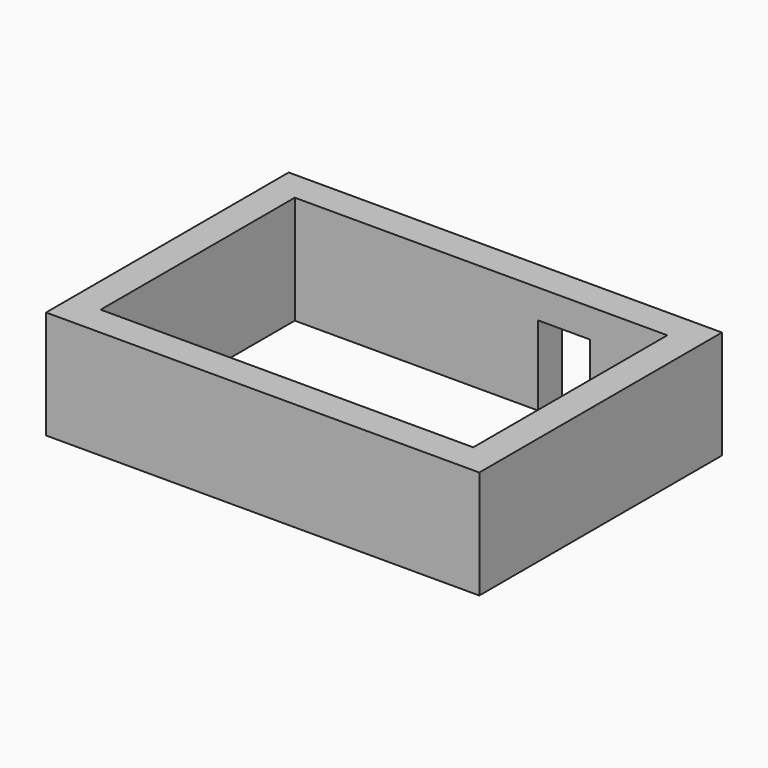
from build123d import *

# Parameters (mm, degrees)
F0_W     = 1200
F0_H     = 700
F1_DEPTH = 2500
F2_W     = 1200
F2_H     = 1833.160281
F3_DEPTH = 700


with BuildPart() as f1:
    # F0 (on Top) → F1 (new body)
    with BuildSketch(Plane.XY):
        Polygon((0, 7000), (0, 0), (10000, 0), (10000, 7000), (7513.208103, 7000), (7513.208103, 6300), (9300, 6300), (9300, 700), (700, 700), (700, 6300), (6313.208103, 6300), (6313.208103, 7000), align=None)
        with Locations((6913.208103, 6650)):
            Rectangle(F0_W, F0_H)
    extrude(amount=F1_DEPTH)

    # F2 (on face) → F3 (cut, through all)
    with BuildSketch(Plane(origin=(0, 7000, 0), x_dir=(-1, 0, 0), z_dir=(0, 1, 0))):
        with Locations((-6913.208103, 916.58014)):
            Rectangle(F2_W, F2_H)
    extrude(amount=-F3_DEPTH, mode=Mode.SUBTRACT)


solid = f1.part
